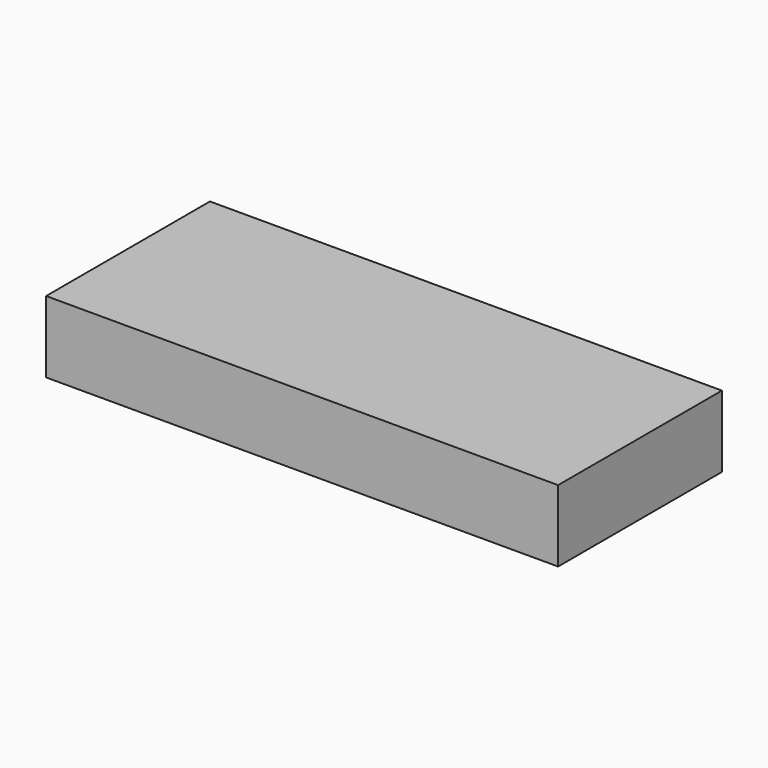
from build123d import *

# Parameters (mm, degrees)
SKETCH_W  = 50
SKETCH_H  = 20
PAD_DEPTH = 7


with BuildPart() as part:
    # Sketch → Pad (new body)
    with BuildSketch(Plane.XY):
        with Locations((-5, 0)):
            Rectangle(SKETCH_W, SKETCH_H)
    extrude(amount=PAD_DEPTH)


solid = part.part
